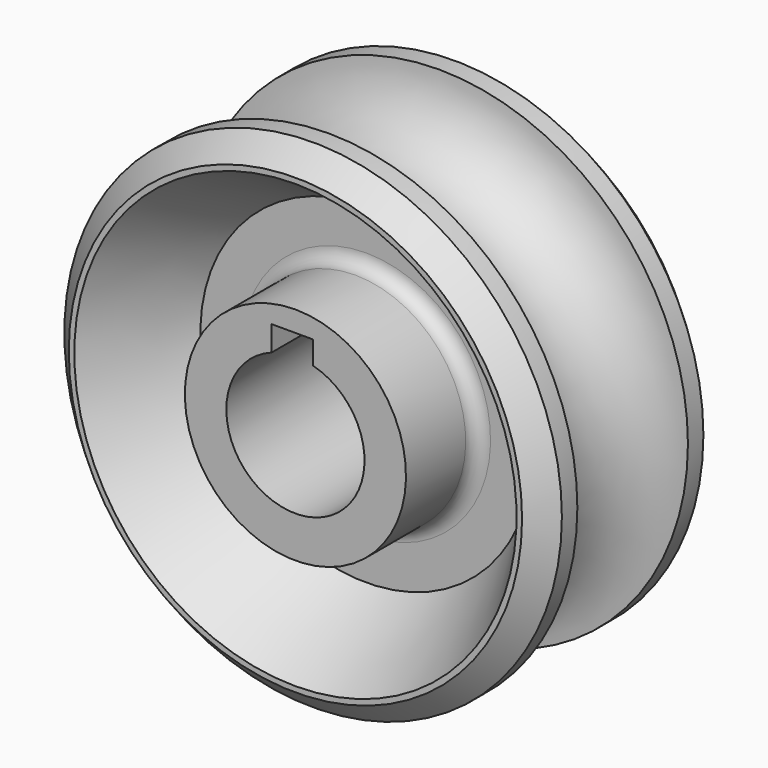
from build123d import *

# Parameters (mm, degrees)
F0_R          = 28.575
F0_R_2        = 7.9375
F1_DEPTH      = 12.7
F1_DEPTH_BACK = 12.7
F2_R          = 7.9375
F6_SIZE2      = 2.54
F6_SIZE       = 2.54
F7_R          = 1.5875
F8_W          = 4.7752
F8_H          = 10.3251
F9_DEPTH      = 15.4178
F9_DEPTH_BACK = 13.716


with BuildPart() as f1:
    # F0 (on Front) → F1 (new body, two sides)
    with BuildSketch(Plane.XZ) as f1_sk:
        Circle(F0_R)
        Circle(F0_R_2, mode=Mode.SUBTRACT)
        Circle(F0_R)
        Circle(F0_R_2, mode=Mode.SUBTRACT)
    extrude(amount=F1_DEPTH)
    extrude(f1_sk.sketch, amount=-F1_DEPTH_BACK)

    # F2 (on Right) → F3 (revolve, cut)
    with BuildSketch(Plane.YZ):
        with Locations((0, 28.575016)):
            Circle(F2_R)
    revolve(axis=Axis((0, 66.637202, 0), (0, 1, 0)), mode=Mode.SUBTRACT)

    # F4 (on Right) → F5 (revolve, cut)
    with BuildSketch(Plane.YZ):
        Polygon((2.54, 19.05), (2.54, 12.7), (12.7, 12.7), (12.7, 25.4), align=None)
        Polygon((-12.7, 12.7), (-2.54, 12.7), (-2.54, 19.05), (-12.7, 25.4), align=None)
    revolve(axis=Axis((0, 24.1046, 0), (0, 1, 0)), mode=Mode.SUBTRACT)

    # F6
    f6_edges = [f1.edges().sort_by_distance(p)[0] for p in [
        (-28.575, 12.7, 0),
        (-28.575, -12.7, 0),
    ]]
    chamfer(f6_edges, length=F6_SIZE, length2=F6_SIZE2)

    # F7
    f7_edges = [f1.edges().sort_by_distance(p)[0] for p in [
        (0, 2.54, -12.7),
        (0, -2.54, -12.7),
    ]]
    fillet(f7_edges, radius=F7_R)

    # F8 (on Front) → F9 (cut, two sides)
    with BuildSketch(Plane.XZ) as f9_sk:
        with Locations((-0.350346, 5.16255)):
            Rectangle(F8_W, F8_H)
    extrude(amount=F9_DEPTH, mode=Mode.SUBTRACT)
    extrude(f9_sk.sketch, amount=-F9_DEPTH_BACK, mode=Mode.SUBTRACT)


solid = f1.part
